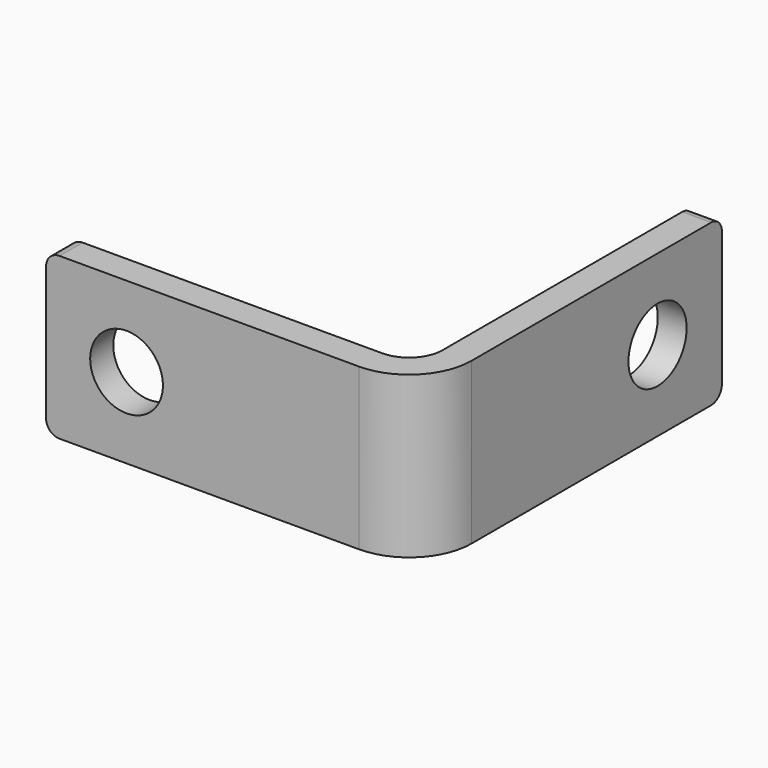
from build123d import *

# Parameters (mm, degrees)
F1_DEPTH = 9.525
F2_R     = 1.98374
F3_R     = 3.69316
F4_R     = 2.15265
F5_DEPTH = 1.70942
F6_R     = 2.15265
F7_DEPTH = 1.70942
F8_R     = 0.79375


with BuildPart() as f1:
    # F0 (on Top) → F1 (new body)
    with BuildSketch(Plane.XY):
        Polygon((0, 20.51558), (0, 0), (-20.51558, 0), (-20.51558, -1.70942), (1.70942, -1.70942), (1.70942, 20.51558), align=None)
    extrude(amount=F1_DEPTH)

    # F2
    f2_edges = [f1.edges().sort_by_distance(p)[0] for p in [
        (0, 0, 4.7625),
    ]]
    fillet(f2_edges, radius=F2_R)

    # F3
    f3_edges = [f1.edges().sort_by_distance(p)[0] for p in [
        (1.70942, -1.70942, 4.7625),
    ]]
    fillet(f3_edges, radius=F3_R)

    # F4 (on face) → F5 (cut, through all)
    with BuildSketch(Plane(origin=(0, 0, 0), x_dir=(-1, 0, 0), z_dir=(0, 1, 0))):
        with Locations((15.75308, 4.7625)):
            Circle(F4_R)
    extrude(amount=-F5_DEPTH, mode=Mode.SUBTRACT)

    # F6 (on face) → F7 (cut, through all)
    with BuildSketch(Plane(origin=(0, 0, 0), x_dir=(0, -1, 0), z_dir=(-1, 0, 0))):
        with Locations((-15.75308, 4.7625)):
            Circle(F6_R)
    extrude(amount=-F7_DEPTH, mode=Mode.SUBTRACT)

    # F8
    f8_edges = [f1.edges().sort_by_distance(p)[0] for p in [
        (0.85471, 20.51558, 0),
        (0.85471, 20.51558, 9.525),
        (-20.51558, -0.85471, 9.525),
        (-20.51558, -0.85471, 0),
    ]]
    fillet(f8_edges, radius=F8_R)


solid = f1.part
